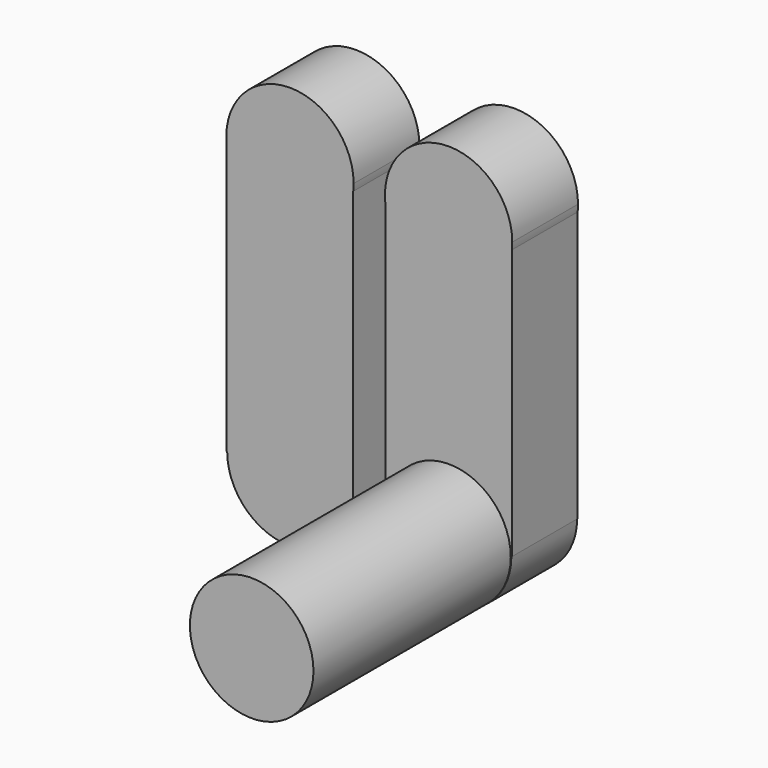
from build123d import *

# Parameters (mm, degrees)
F1_DEPTH = 25.4
F2_R     = 19.0955706626
F3_DEPTH = 76.2
F5_DEPTH = 25.4


with BuildPart() as f1:
    # F0 (on Front) → F1 (new body)
    with BuildSketch(Plane.XZ):
        with BuildLine():
            Line((-19.5532236248, 40.6393535502), (-19.5532236248, 42.7938178182))
            Line((-19.5532236248, 42.7938178182), (19.5532236248, 42.7938178182))
            Line((19.5532236248, 42.7938178182), (19.5532236248, 40.6393535502))
            ThreePointArc((19.5532236248, 40.6393535502), (19.6419535806, 41.7149619699), (19.6715599383, 42.7938178182))
            ThreePointArc((19.6715599383, 42.7938178182), (-1.0788558483, 62.4357713988), (-19.5532236248, 40.6393535502))
        make_face()
        with BuildLine():
            Line((19.5532236248, 42.7938178182), (-19.5532236248, 42.7938178182))
            Line((-19.5532236248, 42.7938178182), (-19.5532236248, 40.6393535502))
            ThreePointArc((-19.5532236248, 40.6393535502), (0, 23.1222578799), (19.5532236248, 40.6393535502))
            Line((19.5532236248, 40.6393535502), (19.5532236248, 42.7938178182))
        make_face()
        with BuildLine():
            ThreePointArc((19.5532236248, 40.6393535502), (0, 23.1222578799), (-19.5532236248, 40.6393535502))
            Line((-19.5532236248, 40.6393535502), (-19.5532236248, -42.7938178182))
            Line((-19.5532236248, -42.7938178182), (-19.4028248978, -42.7938178182))
            ThreePointArc((-19.4028248978, -42.7938178182), (0, -23.3909929204), (19.4028248978, -42.7938178182))
            Line((19.4028248978, -42.7938178182), (19.5532236248, -42.7938178182))
            Line((19.5532236248, -42.7938178182), (19.5532236248, 40.6393535502))
        make_face()
        with BuildLine():
            ThreePointArc((19.4028248978, -42.7938178182), (0, -23.3909929204), (-19.4028248978, -42.7938178182))
            Line((-19.4028248978, -42.7938178182), (19.4028248978, -42.7938178182))
        make_face()
        with BuildLine():
            Line((19.4028248978, -42.7938178182), (-19.4028248978, -42.7938178182))
            ThreePointArc((-19.4028248978, -42.7938178182), (0, -62.196642716), (19.4028248978, -42.7938178182))
        make_face()
    extrude(amount=-F1_DEPTH)

    # F2 (on Front) → F3 (join)
    with BuildSketch(Plane.XZ):
        with Locations((0.1162295012, -43.0245069627)):
            Circle(F2_R)
    extrude(amount=F3_DEPTH)


with BuildPart() as f5:
    # F4 (on Front) → F5 (new body)
    with BuildSketch(Plane.XZ):
        with BuildLine():
            Line((-68.5655418783, 40.6393535502), (-68.5655418783, 42.7938178182))
            Line((-68.5655418783, 42.7938178182), (-29.4590946287, 42.7938178182))
            Line((-29.4590946287, 42.7938178182), (-29.4590946287, 40.6393535502))
            ThreePointArc((-29.4590946287, 40.6393535502), (-29.3703646729, 41.7149619699), (-29.3407583153, 42.7938178182))
            ThreePointArc((-29.3407583153, 42.7938178182), (-50.0911741018, 62.4357713988), (-68.5655418783, 40.6393535502))
        make_face()
        with BuildLine():
            Line((-29.4590946287, 42.7938178182), (-68.5655418783, 42.7938178182))
            Line((-68.5655418783, 42.7938178182), (-68.5655418783, 40.6393535502))
            ThreePointArc((-68.5655418783, 40.6393535502), (-49.0123182535, 23.1222578799), (-29.4590946287, 40.6393535502))
            Line((-29.4590946287, 40.6393535502), (-29.4590946287, 42.7938178182))
        make_face()
        with BuildLine():
            ThreePointArc((-29.4590946287, 40.6393535502), (-49.0123182535, 23.1222578799), (-68.5655418783, 40.6393535502))
            Line((-68.5655418783, 40.6393535502), (-68.5655418783, -42.7938178182))
            Line((-68.5655418783, -42.7938178182), (-68.4151431513, -42.7938178182))
            ThreePointArc((-68.4151431513, -42.7938178182), (-49.0123182535, -23.3909929204), (-29.6094933557, -42.7938178182))
            Line((-29.6094933557, -42.7938178182), (-29.4590946287, -42.7938178182))
            Line((-29.4590946287, -42.7938178182), (-29.4590946287, 40.6393535502))
        make_face()
        with BuildLine():
            ThreePointArc((-29.6094933557, -42.7938178182), (-49.0123182535, -23.3909929204), (-68.4151431513, -42.7938178182))
            Line((-68.4151431513, -42.7938178182), (-29.6094933557, -42.7938178182))
        make_face()
        with BuildLine():
            Line((-29.6094933557, -42.7938178182), (-68.4151431513, -42.7938178182))
            ThreePointArc((-68.4151431513, -42.7938178182), (-49.0123182535, -62.196642716), (-29.6094933557, -42.7938178182))
        make_face()
    extrude(amount=-F5_DEPTH)


solid = Compound([f1.part, f5.part])
